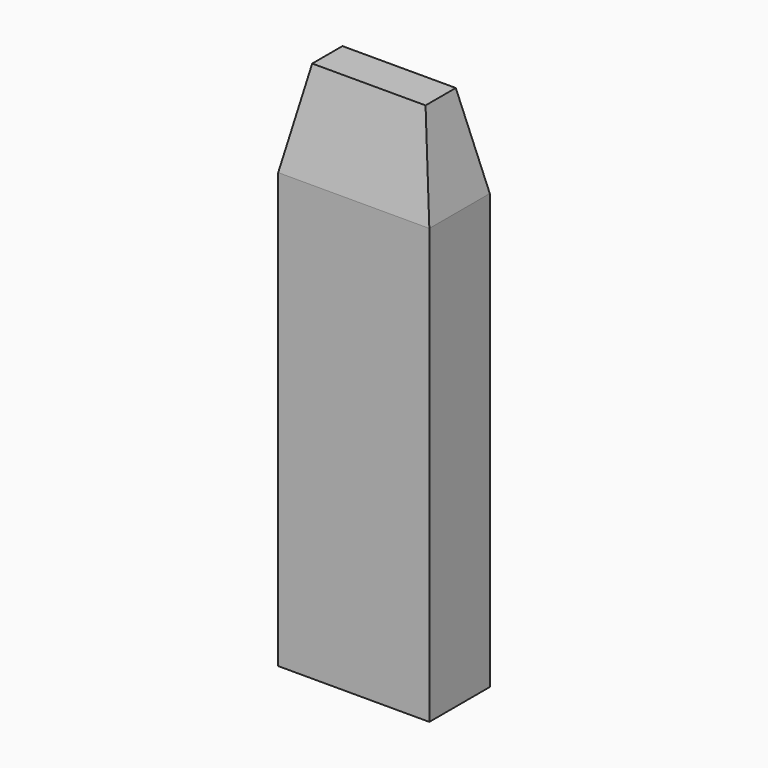
from build123d import *

# Parameters (mm, degrees)
F0_W     = 8
F0_H     = 4
F1_DEPTH = 28
F2_SIZE2 = 1
F2_SIZE  = 5


with BuildPart() as f1:
    # F0 (on Top) → F1 (new body)
    with BuildSketch(Plane.XY):
        with Locations((-11.080092, -2)):
            Rectangle(F0_W, F0_H)
    extrude(amount=F1_DEPTH)

    # F2
    f2_edges = [f1.edges().sort_by_distance(p)[0] for p in [
        (-11.080092, 0, 28),
        (-11.080092, -4, 28),
        (-7.080092, -2, 28),
        (-15.080092, -2, 28),
    ]]
    chamfer(f2_edges, length=F2_SIZE, length2=F2_SIZE2)


solid = f1.part
